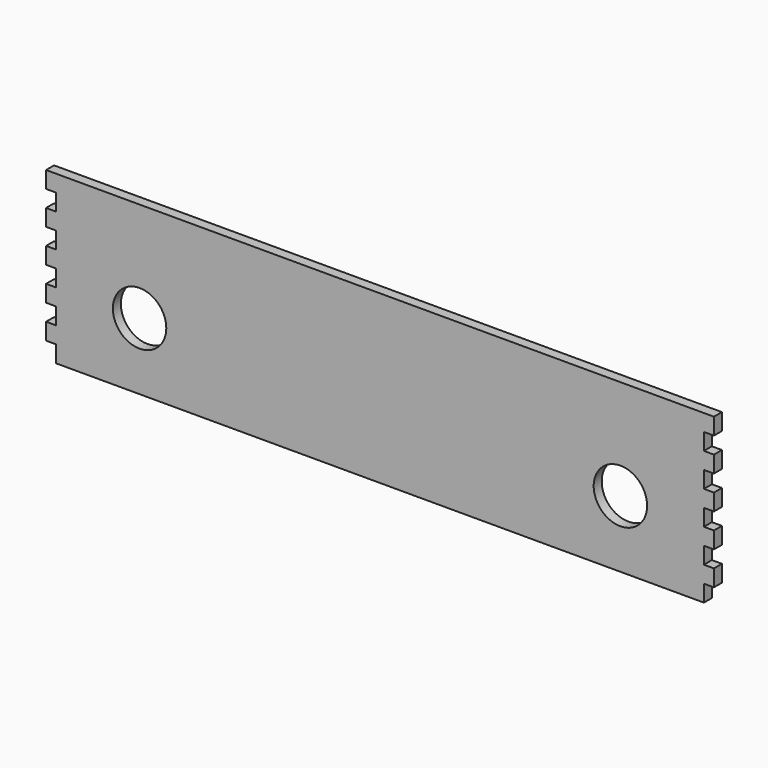
from build123d import *

# Parameters (mm, degrees)
F0_W     = 194
F0_H     = 50
F1_DEPTH = 3
F2_W     = 3
F2_H     = 5
F3_DEPTH = 3
F4_R     = 8
F5_DEPTH = 25


with BuildPart() as f1:
    # F0 (on Front) → F1 (new body)
    with BuildSketch(Plane.XZ):
        Rectangle(F0_W, F0_H)
    extrude(amount=F1_DEPTH)

    # F2 (on face) → F3 (join)
    with BuildSketch(Plane.XZ.offset(3)):
        with Locations((-98.5, 22.5)):
            Rectangle(F2_W, F2_H)
        with Locations((-98.5, 12.5)):
            Rectangle(F2_W, F2_H)
        with Locations((-98.5, 2.5)):
            Rectangle(F2_W, F2_H)
        with Locations((-98.5, -7.5)):
            Rectangle(F2_W, F2_H)
        with Locations((-98.5, -17.5)):
            Rectangle(F2_W, F2_H)
        with Locations((98.5, 12.5)):
            Rectangle(F2_W, F2_H)
        with Locations((98.5, 22.5)):
            Rectangle(F2_W, F2_H)
        with Locations((98.5, 2.5)):
            Rectangle(F2_W, F2_H)
        with Locations((98.5, -7.5)):
            Rectangle(F2_W, F2_H)
        with Locations((98.5, -17.5)):
            Rectangle(F2_W, F2_H)
    extrude(amount=-F3_DEPTH)

    # F4 (on face) → F5 (cut)
    with BuildSketch(Plane.XZ.offset(3)):
        with Locations((-72, -5)):
            Circle(F4_R)
        with Locations((72, -5)):
            Circle(F4_R)
    extrude(amount=-F5_DEPTH, mode=Mode.SUBTRACT)


solid = f1.part
